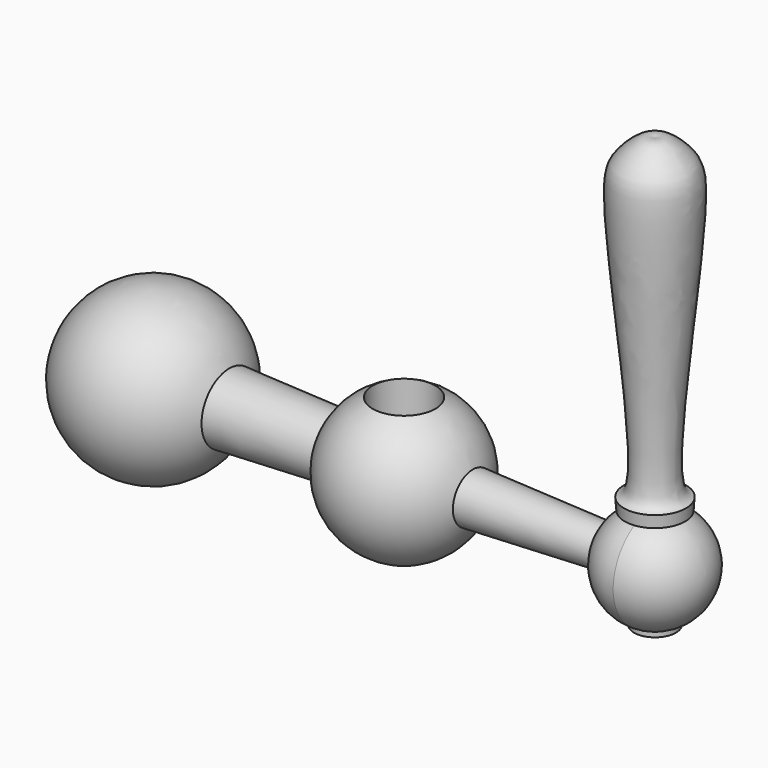
from build123d import *

# Parameters (mm, degrees)
F0_R          = 4.7625
F0_R_2        = 3.175
F3_DEPTH      = 25.4
F3_DEPTH_BACK = 25.4


with BuildPart() as f2:
    # F1 (on Front) → F2 (revolve)
    with BuildSketch(Plane.XZ):
        with BuildLine():
            Line((-50.8, 0), (0, 0))
            Line((0, 0), (46.0375, 0))
            ThreePointArc((46.0375, 0), (43.7126600757, 5.6126600757), (38.1, 7.9375))
            ThreePointArc((38.1, 7.9375), (33.6653909537, 6.5831716411), (30.7440837762, 2.9823485307))
            Line((30.7440837762, 2.9823485307), (10.4464940581, 3.7892503407))
            ThreePointArc((10.4464940581, 3.7892503407), (0.4414129771, 11.1037295912), (-10.1127308342, 4.6065530849))
            Line((-10.1127308342, 4.6065530849), (-26.5403060608, 5.2596079731))
            ThreePointArc((-26.5403060608, 5.2596079731), (-40.7909001256, 12.4116500319), (-50.8, 0))
        make_face()
    revolve(axis=Axis((-25.4, 0, 0), (-1, 0, 0)))

    # F0 (on Top) → F3 (cut, two sides)
    with BuildSketch(Plane.XY) as f3_sk:
        Circle(F0_R)
        with Locations((38.1, 0)):
            Circle(F0_R_2)
    extrude(amount=-F3_DEPTH, mode=Mode.SUBTRACT)
    extrude(f3_sk.sketch, amount=F3_DEPTH_BACK, mode=Mode.SUBTRACT)

    # F4 (on Front) → F5 (revolve)
    with BuildSketch(Plane.XZ):
        with BuildLine():
            Line((38.1, 57.15), (38.1, 0))
            Line((38.1, 0), (38.1, -8.0190747976))
            Line((38.1, -8.0190747976), (41.275, -8.0190747976))
            Line((41.275, -8.0190747976), (41.275, 7.316250355))
            Line((41.275, 7.316250355), (42.6851746338, 7.316250355))
            Line((42.6851746338, 7.316250355), (42.8192897481, 9.1268108057))
            add(Edge.make_bspline(
                [(38.1, 57.15), (38.6338089941, 57.2602124833), (39.9620793922, 57.5351315702), (43.3864941638, 54.4836217076), (45.3763277656, 50.0233180211), (39.8347693404, 11.9671706067), (42.1115041372, 9.4275469633), (42.6981474798, 9.1602681559), (42.8192897481, 9.1268108057)],
                knots=[0, 0, 0, 0, 0.0915460023, 0.2276474816, 0.3916091393, 0.8222909766, 0.937828958, 0.9674329102, 0.9674329102, 0.9674329102, 0.9674329102], degree=3))
        make_face()
    revolve(axis=Axis((38.1, 0, 28.575), (0, 0, 1)))


solid = f2.part
